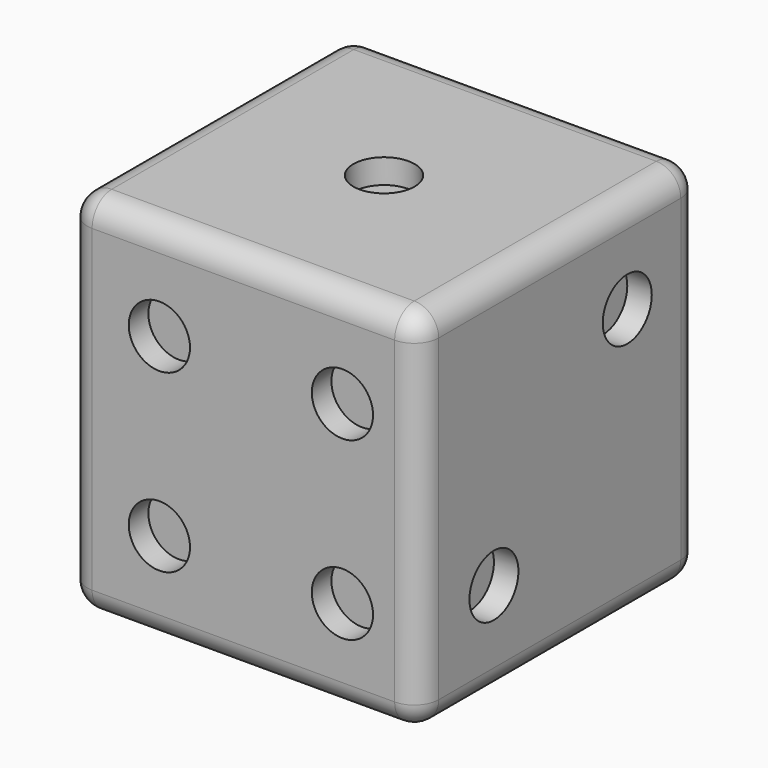
from build123d import *

# Parameters (mm, degrees)
F0_W      = 72.898
F0_H      = 72.898
F1_DEPTH  = 76.2
F2_R      = 5.08
F3_R      = 6.35
F4_DEPTH  = 5.08
F6_DEPTH  = 5.08
F7_R      = 6.35
F8_DEPTH  = 5.08
F9_R      = 6.35
F10_DEPTH = 5.08
F11_R     = 6.35
F12_DEPTH = 5.08
F13_R     = 6.35
F14_DEPTH = 5.08


with BuildPart() as f1:
    # F0 (on Top) → F1 (new body)
    with BuildSketch(Plane.XY):
        with Locations((-56.9363877252, 21.6006250121)):
            Rectangle(F0_W, F0_H)
    extrude(amount=F1_DEPTH)

    # F2
    f2_edges = [f1.edges().sort_by_distance(p)[0] for p in [
        (-20.487388, 21.600625, 76.2),
        (-93.385388, 58.049625, 38.1),
        (-56.936388, 58.049625, 0),
        (-20.487388, 58.049625, 38.1),
        (-20.487388, 21.600625, 0),
        (-56.936388, 58.049625, 76.2),
        (-20.487388, -14.848375, 38.1),
        (-93.385388, 21.600625, 0),
        (-56.936388, -14.848375, 0),
        (-56.936388, -14.848375, 76.2),
        (-93.385388, -14.848375, 38.1),
        (-93.385388, 21.600625, 76.2),
    ]]
    fillet(f2_edges, radius=F2_R)

    # F3 (on face) → F4 (cut)
    with BuildSketch(Plane.XY.offset(76.2)):
        with Locations((-56.9363877252, 21.6006250121)):
            Circle(F3_R)
    extrude(amount=-F4_DEPTH, mode=Mode.SUBTRACT)

    # F5 (on face) → F6 (cut)
    with BuildSketch(Plane(origin=(0, 0, 0), x_dir=(1, 0, 0), z_dir=(0, 0, -1))):
        with BuildLine():
            Line((-71.9999372959, -8.0116250121), (-71.9999372959, 4.6883749879))
            ThreePointArc((-71.9999372959, 4.6883749879), (-78.3499372959, -1.6616250121), (-71.9999372959, -8.0116250121))
        make_face()
        with BuildLine():
            ThreePointArc((-65.6499372959, -1.6616250121), (-67.5098092354, 2.8285030485), (-71.9999372959, 4.6883749879))
            Line((-71.9999372959, 4.6883749879), (-71.9999372959, -8.0116250121))
            ThreePointArc((-71.9999372959, -8.0116250121), (-67.5098092354, -6.1517530726), (-65.6499372959, -1.6616250121))
        make_face()
        with BuildLine():
            ThreePointArc((-71.9999372959, -15.2506250121), (-78.3499372959, -21.6006250121), (-71.9999372959, -27.9506250121))
            Line((-71.9999372959, -27.9506250121), (-71.9999372959, -15.2506250121))
        make_face()
        with BuildLine():
            Line((-71.9999372959, -15.2506250121), (-71.9999372959, -27.9506250121))
            ThreePointArc((-71.9999372959, -27.9506250121), (-67.5098092354, -26.0907530726), (-65.6499372959, -21.6006250121))
            ThreePointArc((-65.6499372959, -21.6006250121), (-67.5098092354, -17.1104969515), (-71.9999372959, -15.2506250121))
        make_face()
        with BuildLine():
            ThreePointArc((-71.9999372959, -35.1896250121), (-78.3499372959, -41.5396250121), (-71.9999372959, -47.8896250121))
            Line((-71.9999372959, -47.8896250121), (-71.9999372959, -35.1896250121))
        make_face()
        with BuildLine():
            ThreePointArc((-40.0320217013, -35.1896250121), (-46.3820217013, -41.5396250121), (-40.0320217013, -47.8896250121))
            Line((-40.0320217013, -47.8896250121), (-40.0320217013, -35.1896250121))
        make_face()
        with BuildLine():
            Line((-40.0320217013, -35.1896250121), (-40.0320217013, -47.8896250121))
            ThreePointArc((-40.0320217013, -47.8896250121), (-35.5418936408, -46.0297530726), (-33.6820217013, -41.5396250121))
            ThreePointArc((-33.6820217013, -41.5396250121), (-35.5418936408, -37.0494969515), (-40.0320217013, -35.1896250121))
        make_face()
        with BuildLine():
            ThreePointArc((-40.0320217013, -15.2506250121), (-46.3820217013, -21.6006250121), (-40.0320217013, -27.9506250121))
            Line((-40.0320217013, -27.9506250121), (-40.0320217013, -15.2506250121))
        make_face()
        with BuildLine():
            Line((-40.0320217013, -15.2506250121), (-40.0320217013, -27.9506250121))
            ThreePointArc((-40.0320217013, -27.9506250121), (-35.5418936408, -26.0907530726), (-33.6820217013, -21.6006250121))
            ThreePointArc((-33.6820217013, -21.6006250121), (-35.5418936408, -17.1104969515), (-40.0320217013, -15.2506250121))
        make_face()
        with BuildLine():
            Line((-40.0320217013, -8.0116250121), (-40.0320217013, 4.6883749879))
            ThreePointArc((-40.0320217013, 4.6883749879), (-46.3820217013, -1.6616250121), (-40.0320217013, -8.0116250121))
        make_face()
        with BuildLine():
            ThreePointArc((-33.6820217013, -1.6616250121), (-35.5418936408, 2.8285030485), (-40.0320217013, 4.6883749879))
            Line((-40.0320217013, 4.6883749879), (-40.0320217013, -8.0116250121))
            ThreePointArc((-40.0320217013, -8.0116250121), (-35.5418936408, -6.1517530726), (-33.6820217013, -1.6616250121))
        make_face()
        with BuildLine():
            Line((-71.9999372959, -35.1896250121), (-71.9999372959, -47.8896250121))
            ThreePointArc((-71.9999372959, -47.8896250121), (-67.5098092354, -46.0297530726), (-65.6499372959, -41.5396250121))
            ThreePointArc((-65.6499372959, -41.5396250121), (-67.5098092354, -37.0494969515), (-71.9999372959, -35.1896250121))
        make_face()
    extrude(amount=-F6_DEPTH, mode=Mode.SUBTRACT)

    # F7 (on face) → F8 (cut)
    with BuildSketch(Plane.YZ.offset(-20.4873877252)):
        with Locations((39.1023317684, 56.5228492172)):
            Circle(F7_R)
        with Locations((4.5328344803, 20.1339047034)):
            Circle(F7_R)
    extrude(amount=-F8_DEPTH, mode=Mode.SUBTRACT)

    # F9 (on face) → F10 (cut)
    with BuildSketch(Plane(origin=(0, 58.0496250121, 0), x_dir=(-1, 0, 0), z_dir=(0, 1, 0))):
        with Locations((75.1341481229, 57.2555372607)):
            Circle(F9_R)
        with Locations((56.9363877252, 38.1)):
            Circle(F9_R)
        with Locations((38.2840325717, 18.4659419437)):
            Circle(F9_R)
    extrude(amount=-F10_DEPTH, mode=Mode.SUBTRACT)

    # F11 (on face) → F12 (cut)
    with BuildSketch(Plane.XZ.offset(14.8483749879)):
        with Locations((-74.3611752987, 55.96582219)):
            Circle(F11_R)
        with Locations((-36.3990627229, 55.96582219)):
            Circle(F11_R)
        with Locations((-36.3990627229, 19.5222850889)):
            Circle(F11_R)
        with Locations((-74.3611752987, 19.5222850889)):
            Circle(F11_R)
    extrude(amount=-F12_DEPTH, mode=Mode.SUBTRACT)

    # F13 (on face) → F14 (cut)
    with BuildSketch(Plane(origin=(-93.3853877252, 0, 0), x_dir=(0, -1, 0), z_dir=(-1, 0, 0))):
        with Locations((-41.9357791543, 54.5396991074)):
            Circle(F13_R)
        with Locations((-21.6006250121, 40.0424264371)):
            Circle(F13_R)
        with Locations((-0.0511793769, 54.5396991074)):
            Circle(F13_R)
        with Locations((-0.0511793769, 20.7625031471)):
            Circle(F13_R)
        with Locations((-41.9357791543, 20.7625031471)):
            Circle(F13_R)
    extrude(amount=-F14_DEPTH, mode=Mode.SUBTRACT)


solid = f1.part
